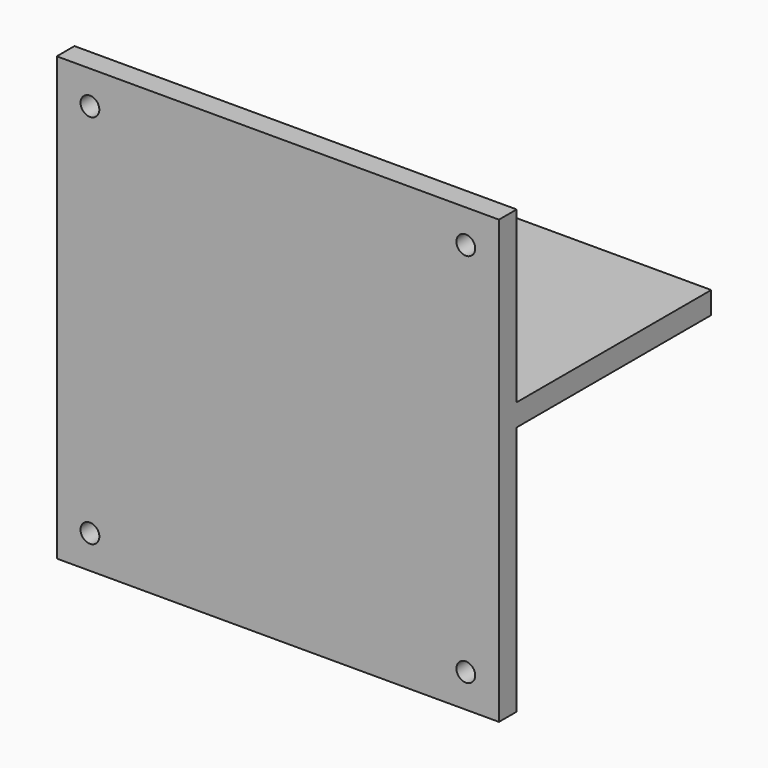
from build123d import *

# Parameters (mm, degrees)
F0_W      = 200
F0_H      = 200
F1_DEPTH  = 120
F2_W      = 110
F2_H      = 76.8
F2_H_2    = 113.2
F3_DEPTH  = 200
F5_R      = 4.25
F6_DEPTH  = 10
F7_R      = 4.25
F8_DEPTH  = 10
F9_R      = 4.25
F10_DEPTH = 10


with BuildPart() as f1:
    # F0 (on Front) → F1 (new body)
    with BuildSketch(Plane.XZ):
        Rectangle(F0_W, F0_H)
    extrude(amount=F1_DEPTH)

    # F2 (on face) → F3 (cut)
    with BuildSketch(Plane.YZ.offset(100)):
        with Locations((-55, 61.6)):
            Rectangle(F2_W, F2_H)
        with Locations((-55, -43.4)):
            Rectangle(F2_W, F2_H_2)
    extrude(amount=-F3_DEPTH, mode=Mode.SUBTRACT)

    # F5 (on face) → F6 (cut)
    with BuildSketch(Plane(origin=(0, -110, 0), x_dir=(-1, 0, 0), z_dir=(0, 1, 0))):
        with Locations((-85, 85)):
            Circle(F5_R)
        with Locations((85, 85)):
            Circle(F5_R)
    extrude(amount=-F6_DEPTH, mode=Mode.SUBTRACT)

    # F7 (on face) → F8 (cut)
    with BuildSketch(Plane(origin=(0, -110, 0), x_dir=(-1, 0, 0), z_dir=(0, 1, 0))):
        with Locations((-85, -85)):
            Circle(F7_R)
    extrude(amount=-F8_DEPTH, mode=Mode.SUBTRACT)

    # F9 (on face) → F10 (cut)
    with BuildSketch(Plane(origin=(0, -110, 0), x_dir=(-1, 0, 0), z_dir=(0, 1, 0))):
        with Locations((85, -85)):
            Circle(F9_R)
    extrude(amount=-F10_DEPTH, mode=Mode.SUBTRACT)


solid = f1.part
